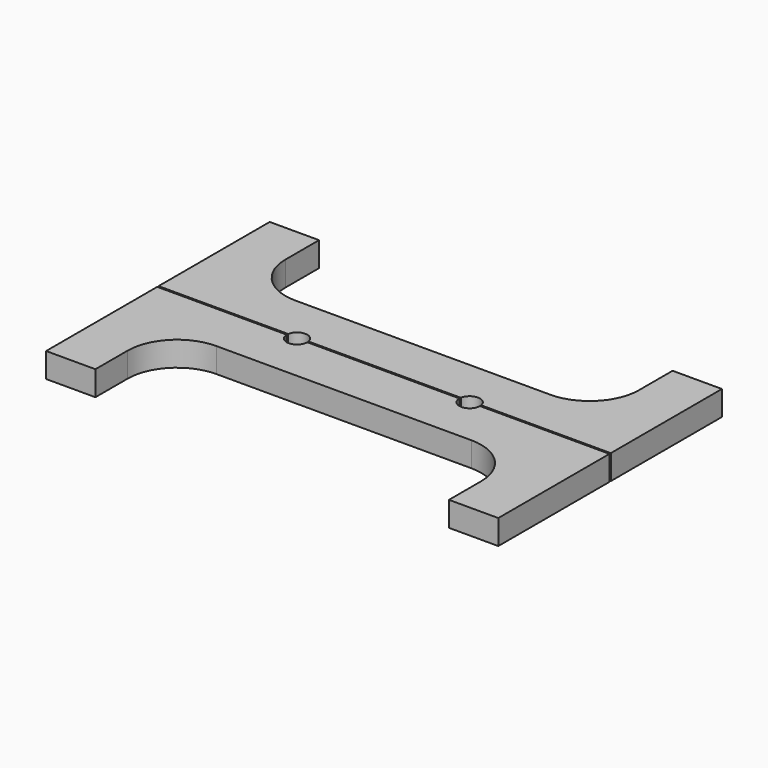
from build123d import *

# Parameters (mm, degrees)
F0_DEPTH = 19.05
F1_R     = 38.1
F1_2_R   = 38.1


with BuildPart() as f0:
    # F3 (on Top) → F0 (new body)
    with BuildSketch(Plane.XY):
        Polygon((-174.625, 107.95), (-174.625, 0.635), (-136.525, 0.635), (-136.525, 37.465), (-136.525, 107.95), align=None)
        with BuildLine():
            Line((-136.525, 37.465), (-136.525, 0.635))
            Line((-136.525, 0.635), (-74.5102413013, 0.635))
            ThreePointArc((-74.5102413013, 0.635), (-66.675, 7.3025), (-58.8397586987, 0.635))
            Line((-58.8397586987, 0.635), (58.8397586987, 0.635))
            ThreePointArc((58.8397586987, 0.635), (66.675, 7.3025), (74.5102413013, 0.635))
            Line((74.5102413013, 0.635), (136.525, 0.635))
            Line((136.525, 0.635), (136.525, 37.465))
            Line((136.525, 37.465), (-136.525, 37.465))
        make_face()
        Polygon((136.525, 0.635), (174.625, 0.635), (174.625, 107.95), (136.525, 107.95), (136.525, 37.465), align=None)
    extrude(amount=F0_DEPTH)

    # F1#2
    f1_2_edges = [f0.edges().sort_by_distance(p)[0] for p in [
        (136.525, 37.465, 9.525),
        (-136.525, 37.465, 9.525),
    ]]
    fillet(f1_2_edges, radius=F1_2_R)


with BuildPart() as f0b:
    # F3 (on Top) → F0, piece 2 (new body)
    with BuildSketch(Plane.XY):
        Polygon((-174.625, -0.635), (-174.625, -107.95), (-136.525, -107.95), (-136.525, -38.735), (-136.525, -0.635), align=None)
        with BuildLine():
            Line((-136.525, -0.635), (-136.525, -38.735))
            Line((-136.525, -38.735), (136.525, -38.735))
            Line((136.525, -38.735), (136.525, -0.635))
            Line((136.525, -0.635), (74.6125, -0.635))
            ThreePointArc((74.6125, -0.635), (66.675, -8.5725), (58.7375, -0.635))
            Line((58.7375, -0.635), (-58.7375, -0.635))
            ThreePointArc((-58.7375, -0.635), (-66.675, -8.5725), (-74.6125, -0.635))
            Line((-74.6125, -0.635), (-136.525, -0.635))
        make_face()
        Polygon((136.525, -38.735), (136.525, -107.95), (174.625, -107.95), (174.625, -0.635), (136.525, -0.635), align=None)
    extrude(amount=F0_DEPTH)

    # F1
    f1_edges = [f0b.edges().sort_by_distance(p)[0] for p in [
        (-136.525, -38.735, 9.525),
        (136.525, -38.735, 9.525),
    ]]
    fillet(f1_edges, radius=F1_R)


with BuildPart() as f2_1:
    # F2: copy of F0b
    add(f0b.part)


solid = Compound([f0.part, f0b.part, f2_1.part])
